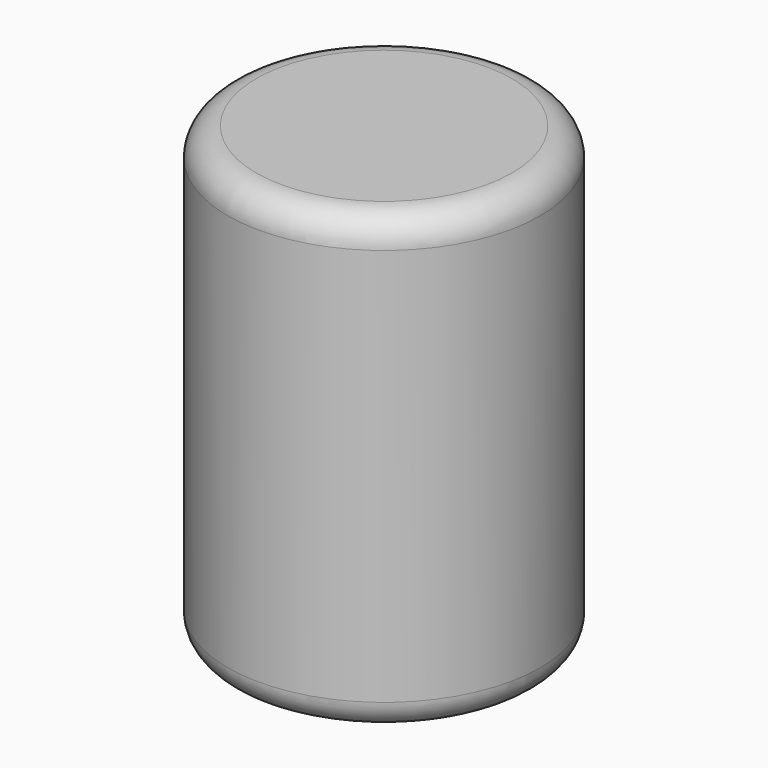
from build123d import *

# Parameters (mm, degrees)
F0_R     = 5.5
F1_DEPTH = 16
F2_R     = 1
F3_T     = -1.5
F6_R     = 1


with BuildPart() as f1:
    # F0 (on Top) → F1 (new body)
    with BuildSketch(Plane.XY):
        Circle(F0_R)
    extrude(amount=-F1_DEPTH)

    # F2
    f2_edges = [f1.edges().sort_by_distance(p)[0] for p in [
        (-5.5, 0, -16),
    ]]
    fillet(f2_edges, radius=F2_R)

    # F3 (hollow: no face is removed)
    offset(amount=F3_T, mode=Mode.SUBTRACT)

    # F4 (on Front) → F5 (revolve)
    with BuildSketch(Plane.XZ):
        with BuildLine():
            Line((3, -16), (0, -16))
            Line((0, -16), (0, -17))
            ThreePointArc((0, -17), (1.5855322487, -16.7565967462), (3, -16))
        make_face()
    revolve(axis=Axis((0, 0, -16.5), (0, 0, -1)))

    # F6
    f6_edges = [f1.edges().sort_by_distance(p)[0] for p in [
        (-5.5, 0, 0),
    ]]
    fillet(f6_edges, radius=F6_R)


solid = f1.part
